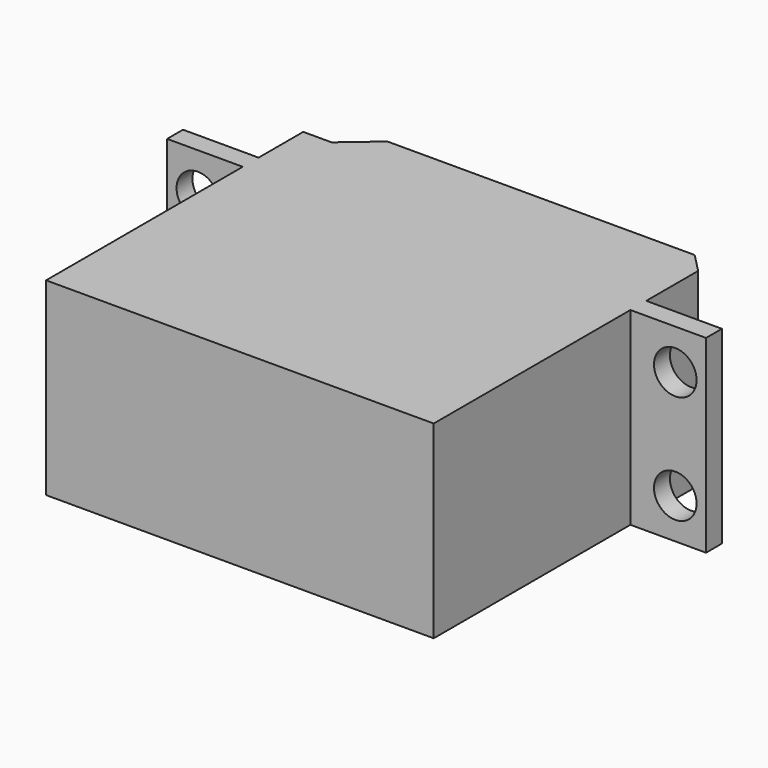
from build123d import *

# Parameters (mm, degrees)
F1_DEPTH  = 10
F2_R      = 7
F2_R_2    = 3
F3_DEPTH  = 1
F4_DEPTH  = 6
F5_SIZE   = 0.5
F6_W      = 2.1
F6_H      = 20
F8_DEPTH  = 8
F7_W      = 2.1
F7_H      = 20
F9_DEPTH  = 8
F10_R     = 2.25
F11_DEPTH = 28.101
F10_W     = 3
F10_H     = 2.7
F12_DEPTH = 1.5


with BuildPart() as f1:
    # F0 (on Top) → F1 (new body, symmetric)
    with BuildSketch(Plane.XY):
        Polygon((-20.5, -18.5), (20.5, -18.5), (20.5, 16.4531469345), (18.5, 18.5), (-14, 18.5), (-17.5, 15.5), (-20.5, 15.5), align=None)
    extrude(amount=F1_DEPTH, both=True)

    # F2 (on face) → F3 (join)
    with BuildSketch(Plane(origin=(0, 18.5, 0), x_dir=(-1, 0, 0), z_dir=(0, 1, 0))):
        with Locations((-10, 0)):
            Circle(F2_R)
        with Locations((-10, 0)):
            Circle(F2_R_2, mode=Mode.SUBTRACT)
    extrude(amount=F3_DEPTH)

    # F4 (add): a face of the model
    f4_faces = [f1.faces().sort_by_distance(p)[0] for p in [
        (10, 18.5, 0),
    ]]
    extrude(f4_faces, amount=F4_DEPTH)

    # F5
    f5_edges = [f1.edges().sort_by_distance(p)[0] for p in [
        (17, 19.5, 0),
    ]]
    chamfer(f5_edges, length=F5_SIZE)

    # F6 (on face) → F8 (join)
    with BuildSketch(Plane(origin=(-20.5, 0, 0), x_dir=(0, -1, 0), z_dir=(-1, 0, 0))):
        with Locations((-8.55, 0)):
            Rectangle(F6_W, F6_H)
    extrude(amount=F8_DEPTH)

    # F7 (on face) → F9 (join)
    with BuildSketch(Plane.YZ.offset(20.5)):
        with Locations((8.55, 0)):
            Rectangle(F7_W, F7_H)
    extrude(amount=F9_DEPTH)

    # F10 (on face) → F11 (cut, through all)
    with BuildSketch(Plane(origin=(0, 9.6, 0), x_dir=(-1, 0, 0), z_dir=(0, 1, 0))):
        with Locations((-25.25, 5.75)):
            Circle(F10_R)
        with Locations((-25.25, -5.75)):
            Circle(F10_R)
        with Locations((25.25, -5.75)):
            Circle(F10_R)
        with Locations((25.25, 5.75)):
            Circle(F10_R)
    extrude(amount=-F11_DEPTH, mode=Mode.SUBTRACT)

    # F10 (on face) → F12 (join)
    with BuildSketch(Plane(origin=(0, 9.6, 0), x_dir=(-1, 0, 0), z_dir=(0, 1, 0))):
        with Locations((-22, 0)):
            Rectangle(F10_W, F10_H)
        with Locations((22, 0)):
            Rectangle(F10_W, F10_H)
    extrude(amount=F12_DEPTH)


solid = f1.part
